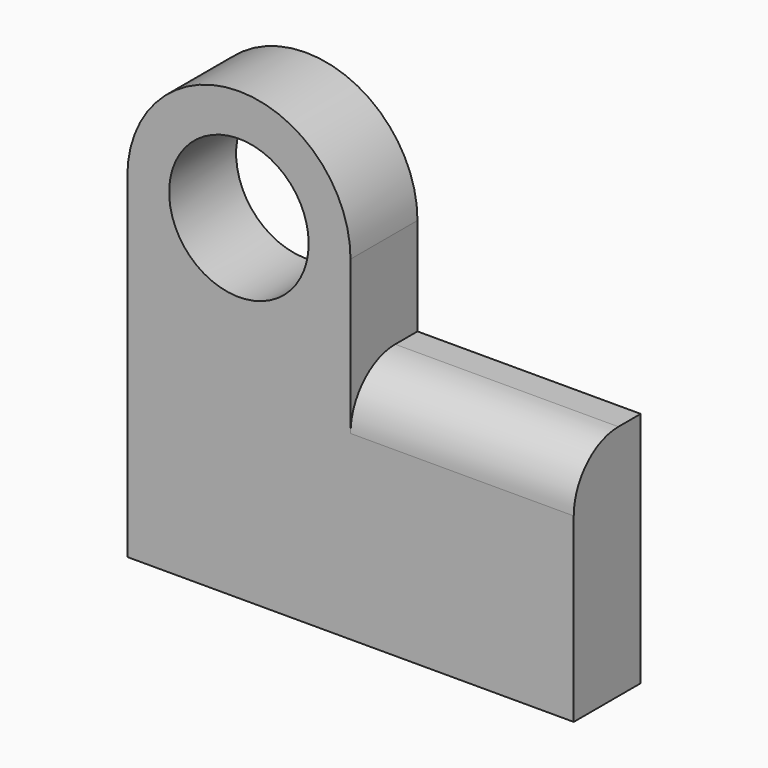
from build123d import *

# Parameters (mm, degrees)
F1_DEPTH = 38.1
F2_R     = 25.4
F3_R     = 31.75
F4_DEPTH = 50.8


with BuildPart() as f1:
    # F0 (on Front) → F1 (new body)
    with BuildSketch(Plane.XZ):
        with BuildLine():
            ThreePointArc((-27.599881, 62.391328), (-78.399881, 113.191328), (-129.199881, 62.391328))
            Line((-129.199881, 62.391328), (-129.199881, -90.008672))
            Line((-129.199881, -90.008672), (74.000119, -90.008672))
            Line((74.000119, -90.008672), (74.000119, 17.941328))
            Line((74.000119, 17.941328), (-27.599881, 17.941328))
            Line((-27.599881, 17.941328), (-27.599881, 62.391328))
        make_face()
    extrude(amount=F1_DEPTH)

    # F2
    f2_edges = [f1.edges().sort_by_distance(p)[0] for p in [
        (23.200119, -38.1, 17.941328),
    ]]
    fillet(f2_edges, radius=F2_R)

    # F3 (on face) → F4 (cut)
    with BuildSketch(Plane.XZ.offset(38.1)):
        with Locations((-78.399881, 62.391328)):
            Circle(F3_R)
    extrude(amount=-F4_DEPTH, mode=Mode.SUBTRACT)


solid = f1.part
